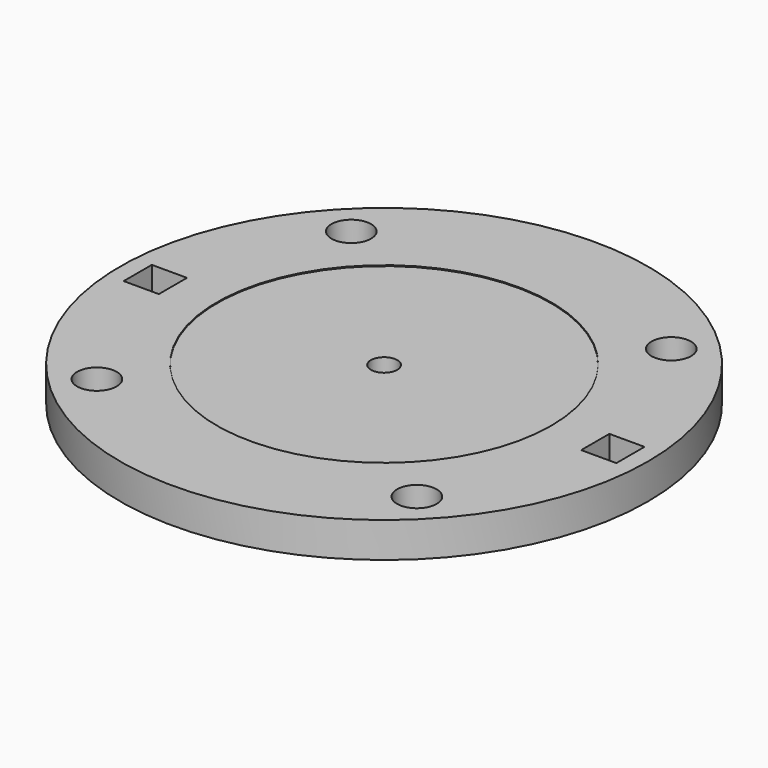
from build123d import *

# Parameters (mm, degrees)
F0_R     = 30
F0_W     = 4
F0_H     = 4
F0_R_2   = 1.5
F1_DEPTH = 4
F2_R     = 2.25
F3_DEPTH = 2.6
F4_R     = 19
F4_R_2   = 1.5
F5_DEPTH = 0.1


with BuildPart() as f1:
    # F0 (on Top) → F1 (new body)
    with BuildSketch(Plane.XY):
        Circle(F0_R)
        with Locations((-26, 0)):
            Rectangle(F0_W, F0_H, mode=Mode.SUBTRACT)
        Circle(F0_R_2, mode=Mode.SUBTRACT)
        with Locations((26, 0)):
            Rectangle(F0_W, F0_H, mode=Mode.SUBTRACT)
    extrude(amount=F1_DEPTH)

    # F2 (on face) → F3 (cut)
    with BuildSketch(Plane.XY.offset(4)):
        with Locations((-18.197132, 18.083166)):
            Circle(F2_R)
        with Locations((18.083166, 18.197132)):
            Circle(F2_R)
        with Locations((-18.083166, -18.197132)):
            Circle(F2_R)
        with Locations((18.197132, -18.083166)):
            Circle(F2_R)
    extrude(amount=-F3_DEPTH, mode=Mode.SUBTRACT)

    # F4 (on face) → F5 (cut)
    with BuildSketch(Plane.XY.offset(4)):
        Circle(F4_R)
        Circle(F4_R_2, mode=Mode.SUBTRACT)
    extrude(amount=-F5_DEPTH, mode=Mode.SUBTRACT)


solid = f1.part
